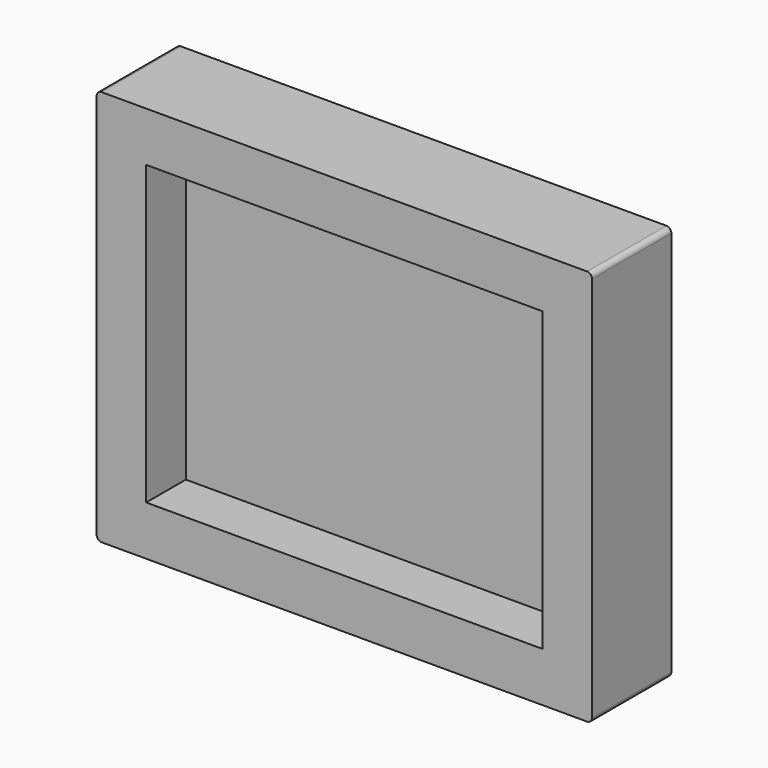
from build123d import *

# Parameters (mm, degrees)
F0_W     = 127
F0_H     = 101.6
F0_W_2   = 101.6
F0_H_2   = 76.2
F1_DEPTH = 25.4
F2_DEPTH = 12.7
F3_R     = 1.27


with BuildPart() as f1:
    # F0 (on Front) → F1 (new body)
    with BuildSketch(Plane.XZ):
        Rectangle(F0_W, F0_H)
        Rectangle(F0_W_2, F0_H_2, mode=Mode.SUBTRACT)
        Rectangle(F0_W_2, F0_H_2)
    extrude(amount=-F1_DEPTH)

    # F0 (on Front) → F2 (cut)
    with BuildSketch(Plane.XZ):
        Rectangle(F0_W_2, F0_H_2)
    extrude(amount=-F2_DEPTH, mode=Mode.SUBTRACT)

    # F3
    f3_edges = [f1.edges().sort_by_distance(p)[0] for p in [
        (-63.5, 12.7, 50.8),
        (63.5, 12.7, 50.8),
        (63.5, 12.7, -50.8),
        (-63.5, 12.7, -50.8),
    ]]
    fillet(f3_edges, radius=F3_R)


solid = f1.part
